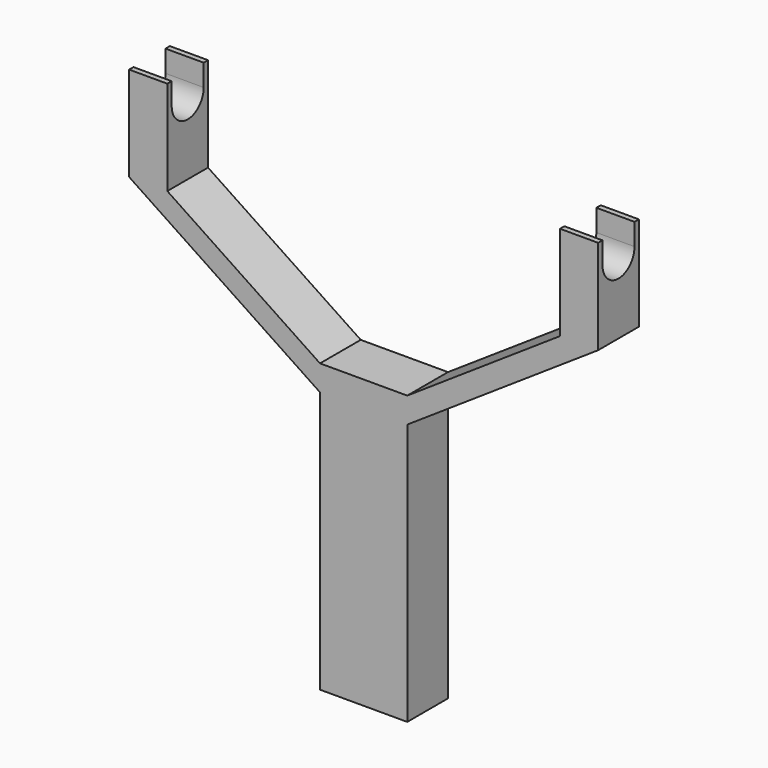
from build123d import *

# Parameters (mm, degrees)
F1_DEPTH = 29.6418
F3_DEPTH = 273.050817


with BuildPart() as f1:
    # F0 (on Front) → F1 (new body)
    with BuildSketch(Plane.XZ):
        Polygon((-25.4, 0), (-25.4, -152.4), (25.4, -152.4), (25.4, 0), (136.524908, 74.240069), (136.524908, 129.281869), (114.299908, 129.281869), (114.299908, 74.240069), (25.4, 14.848026), (-25.4, 14.848026), (-114.299908, 74.240069), (-114.299908, 129.281869), (-136.524908, 129.281869), (-136.524908, 74.240069), align=None)
    extrude(amount=F1_DEPTH)

    # F2 (on face) → F3 (cut, through all)
    with BuildSketch(Plane(origin=(-136.524908, 0, 0), x_dir=(0, -1, 0), z_dir=(-1, 0, 0))):
        with BuildLine():
            Line((26.4668, 129.281869), (3.175, 129.281869))
            Line((3.175, 129.281869), (3.175, 116.581869))
            ThreePointArc((3.175, 116.581869), (14.8209, 104.935969), (26.4668, 116.581869))
            Line((26.4668, 116.581869), (26.4668, 129.281869))
        make_face()
    extrude(amount=-F3_DEPTH, mode=Mode.SUBTRACT)


solid = f1.part
